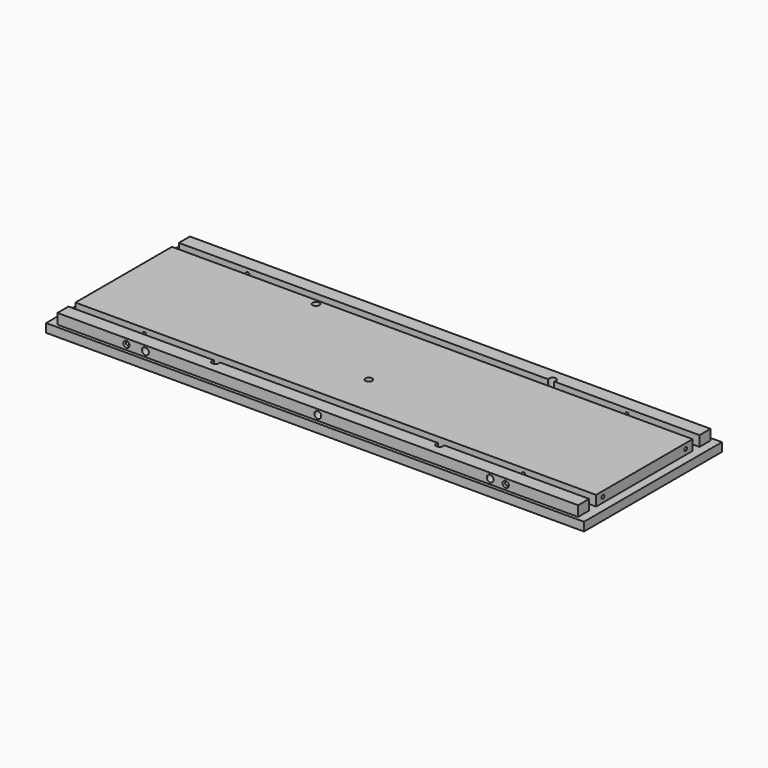
from build123d import *

# Parameters (mm, degrees)
SKETCH002_W     = 312
SKETCH002_H     = 100
PAD002_DEPTH    = 11
SKETCH003_W     = 312
SKETCH003_H     = 2
POCKET_DEPTH    = 6
SKETCH004_W     = 5
SKETCH004_H     = 96
POCKET001_DEPTH = 6
SKETCH008_W     = 302
SKETCH008_H     = 5
POCKET003_DEPTH = 6
SKETCH018_R     = 2
POCKET011_DEPTH = 5
SKETCH019_R     = 2
POCKET012_DEPTH = 5
SKETCH020_R     = 1
POCKET013_DEPTH = 15
SKETCH021_R     = 1
POCKET014_DEPTH = 15
SKETCH022_R     = 1
POCKET015_DEPTH = 20
SKETCH023_R     = 1
POCKET016_DEPTH = 20
CHAMFER001_SIZE = 0.8
SKETCH058_R     = 2
POCKET028_DEPTH = 8


with BuildPart() as part:
    # Sketch002 → Pad002 (new body)
    with BuildSketch(Plane.XY):
        with Locations((156, 50)):
            Rectangle(SKETCH002_W, SKETCH002_H)
    extrude(amount=PAD002_DEPTH)

    # Sketch003 (on Face6 of Pad002) → Pocket (cut)
    with BuildSketch(Plane.XY.offset(11)):
        with Locations((156, 1)):
            Rectangle(SKETCH003_W, SKETCH003_H)
        with Locations((156, 99)):
            Rectangle(SKETCH003_W, SKETCH003_H)
    extrude(amount=-POCKET_DEPTH, mode=Mode.SUBTRACT)

    # Sketch004 (on Face9 of Pocket) → Pocket001 (cut)
    with BuildSketch(Plane.XY.offset(11)):
        with Locations((2.5, 50)):
            Rectangle(SKETCH004_W, SKETCH004_H)
        with Locations((309.5, 50)):
            Rectangle(SKETCH004_W, SKETCH004_H)
    extrude(amount=-POCKET001_DEPTH, mode=Mode.SUBTRACT)

    # Sketch008 (on Face13 of Pocket001) → Pocket003 (cut)
    with BuildSketch(Plane.XY.offset(11)):
        with Locations((156, 87.5)):
            Rectangle(SKETCH008_W, SKETCH008_H)
        with Locations((156, 12.5)):
            Rectangle(SKETCH008_W, SKETCH008_H)
    extrude(amount=-POCKET003_DEPTH, mode=Mode.SUBTRACT)

    # Sketch018 (on Face9 of Pocket003) → Pocket011 (cut)
    with BuildSketch(Plane.XZ.offset(-2)):
        with Locations((56, 8)):
            Circle(SKETCH018_R)
        with Locations((156, 8)):
            Circle(SKETCH018_R)
        with Locations((256, 8)):
            Circle(SKETCH018_R)
    extrude(amount=-POCKET011_DEPTH, mode=Mode.SUBTRACT)

    # Sketch019 (on Face11 of Pocket011) → Pocket012 (cut)
    with BuildSketch(Plane(origin=(0, 98, 0), x_dir=(-1, 0, 0), z_dir=(0, 1, 0))):
        with Locations((-56, 8)):
            Circle(SKETCH019_R)
        with Locations((-156, 8)):
            Circle(SKETCH019_R)
        with Locations((-256, 8)):
            Circle(SKETCH019_R)
    extrude(amount=-POCKET012_DEPTH, mode=Mode.SUBTRACT)

    # Sketch020 (on Face22 of Pocket012) → Pocket013 (cut)
    with BuildSketch(Plane(origin=(5, 0, 0), x_dir=(0, -1, 0), z_dir=(-1, 0, 0))):
        with Locations((-20, 8)):
            Circle(SKETCH020_R)
        with Locations((-80, 8)):
            Circle(SKETCH020_R)
    extrude(amount=-POCKET013_DEPTH, mode=Mode.SUBTRACT)

    # Sketch021 (on Face14 of Pocket013) → Pocket014 (cut)
    with BuildSketch(Plane.YZ.offset(307)):
        with Locations((80, 8)):
            Circle(SKETCH021_R)
        with Locations((20, 8)):
            Circle(SKETCH021_R)
    extrude(amount=-POCKET014_DEPTH, mode=Mode.SUBTRACT)

    # Sketch022 (on Face9 of Pocket014) → Pocket015 (cut)
    with BuildSketch(Plane.XZ.offset(-2)):
        with Locations((45, 8)):
            Circle(SKETCH022_R)
        with Locations((265, 8)):
            Circle(SKETCH022_R)
    extrude(amount=-POCKET015_DEPTH, mode=Mode.SUBTRACT)

    # Sketch023 (on Face11 of Pocket015) → Pocket016 (cut)
    with BuildSketch(Plane(origin=(0, 98, 0), x_dir=(-1, 0, 0), z_dir=(0, 1, 0))):
        with Locations((-45, 8)):
            Circle(SKETCH023_R)
        with Locations((-265, 8)):
            Circle(SKETCH023_R)
    extrude(amount=-POCKET016_DEPTH, mode=Mode.SUBTRACT)

    # Chamfer001
    chamfer001_edges = [part.edges().sort_by_distance(p)[0] for p in [
        (46, 98, 8),
        (266, 98, 8),
        (264, 2, 8),
        (44, 2, 8),
    ]]
    chamfer(chamfer001_edges, length=CHAMFER001_SIZE)

    # Sketch058 (on Face3 of Chamfer001) → Pocket028 (cut)
    with BuildSketch(Plane.XY.offset(11)):
        with Locations((91, 9)):
            Circle(SKETCH058_R)
        with Locations((221, 9)):
            Circle(SKETCH058_R)
        with Locations((156, 39)):
            Circle(SKETCH058_R)
        with Locations((91, 82)):
            Circle(SKETCH058_R)
        with Locations((221, 91)):
            Circle(SKETCH058_R)
    extrude(amount=-POCKET028_DEPTH, mode=Mode.SUBTRACT)


with BuildPart() as part_1:
    # Body001 placement: moved
    add(part.part.moved(Location((-5, 0, -40))))


solid = part_1.part
